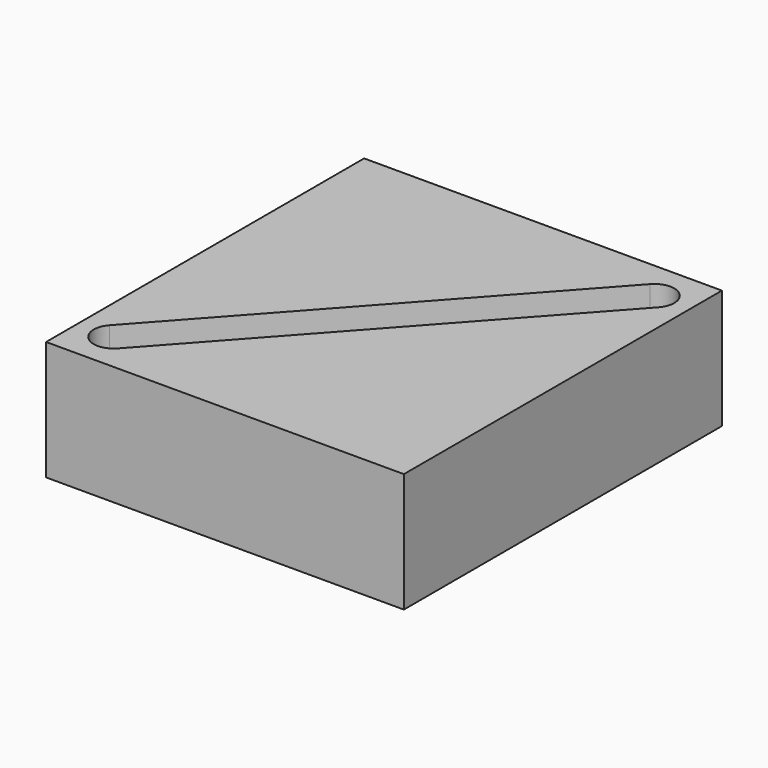
from build123d import *

# Parameters (mm, degrees)
F0_W     = 114.3
F0_H     = 38.1
F1_DEPTH = 127
F3_DEPTH = 38.101


with BuildPart() as f1:
    # F0 (on Front) → F1 (new body)
    with BuildSketch(Plane.XZ):
        Rectangle(F0_W, F0_H)
    extrude(amount=F1_DEPTH)

    # F2 (on face) → F3 (cut, through all)
    with BuildSketch(Plane.XY.offset(19.05)):
        with BuildLine():
            ThreePointArc((-50.425783, -110.036421), (-43.435183, -108.375297), (-39.37, -114.3))
            ThreePointArc((-39.37, -114.3), (-39.787741, -116.565126), (-40.985999, -118.532226))
            Line((-40.985999, -118.532226), (50.425783, -16.963579))
            ThreePointArc((50.425783, -16.963579), (41.472074, -17.419918), (40.985999, -8.467774))
            Line((40.985999, -8.467774), (-50.425783, -110.036421))
        make_face()
        with BuildLine():
            ThreePointArc((-40.985999, -118.532226), (-39.787741, -116.565126), (-39.37, -114.3))
            ThreePointArc((-39.37, -114.3), (-43.435183, -108.375297), (-50.425783, -110.036421))
            ThreePointArc((-50.425783, -110.036421), (-49.967926, -119.019918), (-40.985999, -118.532226))
        make_face()
        with BuildLine():
            ThreePointArc((52.07, -12.7), (47.985126, -6.767741), (40.985999, -8.467774))
            ThreePointArc((40.985999, -8.467774), (41.472074, -17.419918), (50.425783, -16.963579))
            ThreePointArc((50.425783, -16.963579), (51.644703, -14.984817), (52.07, -12.7))
        make_face()
    extrude(amount=-F3_DEPTH, mode=Mode.SUBTRACT)


solid = f1.part
